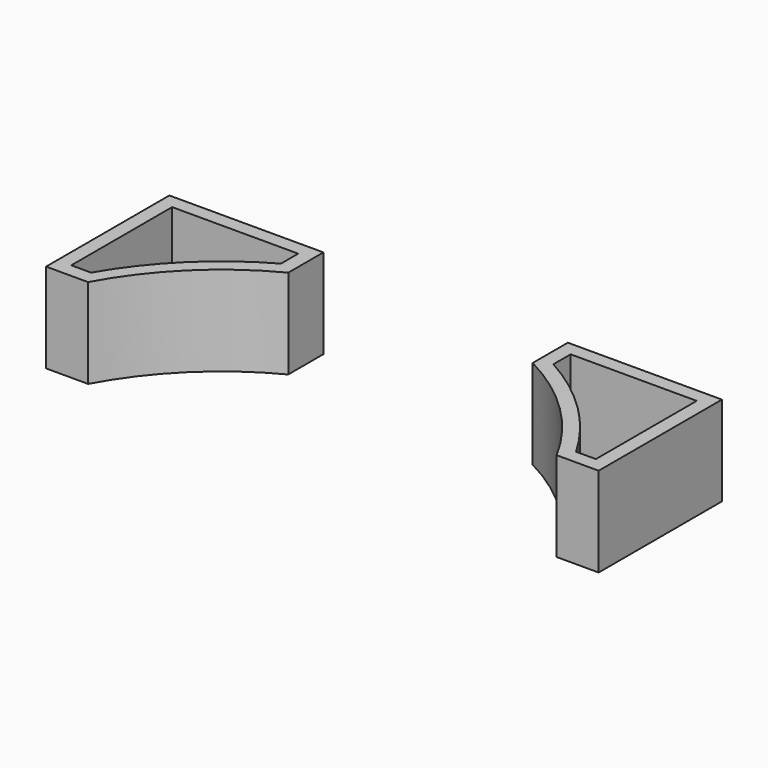
from build123d import *

# Parameters (mm, degrees)
F1_DEPTH = 40.64


with BuildPart() as f1:
    # F0 (on Top) → F1 (new body)
    with BuildSketch(Plane.XY):
        with BuildLine():
            ThreePointArc((-106.208534, 57.237836), (-84.577953, 86.040644), (-55.408534, 107.174236))
            Line((-55.408534, 107.174236), (-55.408534, 127.087836))
            Line((-55.408534, 127.087836), (-125.258534, 127.087836))
            Line((-125.258534, 127.087836), (-125.258534, 57.237836))
            Line((-125.258534, 57.237836), (-106.208534, 57.237836))
        make_face()
        with BuildLine():
            Line((-118.908533, 63.587837), (-118.908533, 120.737836))
            Line((-118.908533, 120.737836), (-61.758534, 120.737836))
            Line((-61.758534, 120.737836), (-61.758534, 110.972445))
            ThreePointArc((-61.758534, 110.972445), (-89.055864, 90.543101), (-109.934467, 63.587837))
            Line((-109.934467, 63.587837), (-118.908533, 63.587837))
        make_face(mode=Mode.SUBTRACT)
        with BuildLine():
            Line((106.208534, 57.237836), (125.258534, 57.237836))
            Line((125.258534, 57.237836), (125.258534, 127.087836))
            Line((125.258534, 127.087836), (55.408534, 127.087836))
            Line((55.408534, 127.087836), (55.408534, 107.174236))
            ThreePointArc((55.408534, 107.174236), (84.577953, 86.040644), (106.208534, 57.237836))
        make_face()
        with BuildLine():
            ThreePointArc((109.934467, 63.587837), (89.055864, 90.543101), (61.758534, 110.972445))
            Line((61.758534, 110.972445), (61.758534, 120.737836))
            Line((61.758534, 120.737836), (118.908533, 120.737836))
            Line((118.908533, 120.737836), (118.908533, 63.587837))
            Line((118.908533, 63.587837), (109.934467, 63.587837))
        make_face(mode=Mode.SUBTRACT)
    extrude(amount=F1_DEPTH)


solid = f1.part
